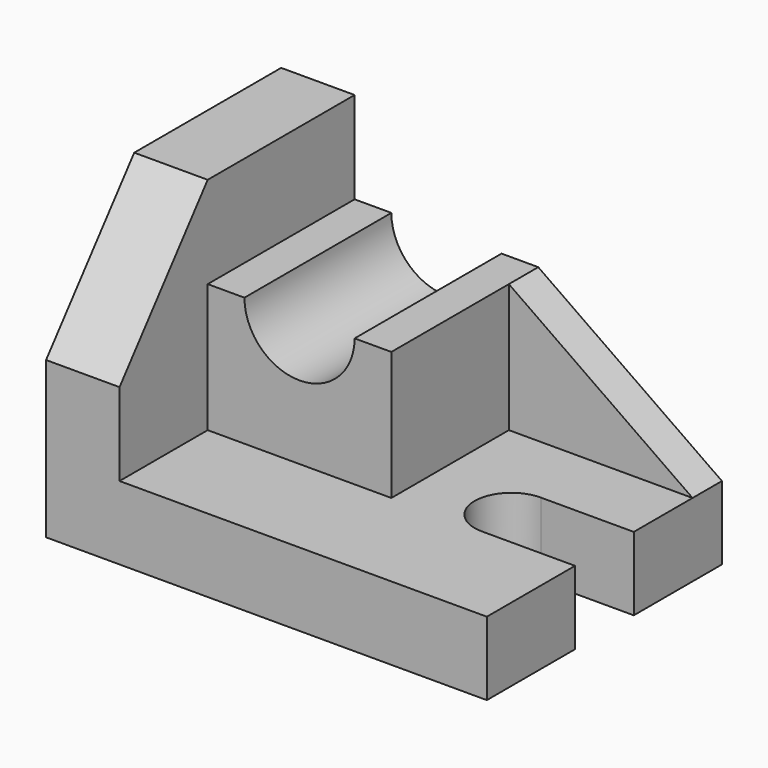
from build123d import *

# Parameters (mm, degrees)
F2_DEPTH = 1625.6
F3_DEPTH = 1625.601
F5_DEPTH = 2438.401
F7_DEPTH = 1016
F9_DEPTH = 203.2


with BuildPart() as f2:
    # F0 (on Front) → F2 (new body)
    with BuildSketch(Plane.XZ):
        Polygon((0, 1625.6), (0, 0), (98.227218, 0), (2438.4, 0), (2438.4, 406.4), (406.4, 406.4), (406.4, 1625.6), align=None)
    extrude(amount=-F2_DEPTH)

    # F1 (on Top) → F3 (cut, through all)
    with BuildSketch(Plane.XY):
        with BuildLine():
            Line((2457.325877, 609.6), (2457.325877, 1016))
            Line((2457.325877, 1016), (1923.925877, 1016))
            ThreePointArc((1923.925877, 1016), (1720.725877, 812.8), (1923.925877, 609.6))
            Line((1923.925877, 609.6), (2457.325877, 609.6))
        make_face()
    extrude(amount=F3_DEPTH, mode=Mode.SUBTRACT)

    # F4 (on face) → F5 (cut, through all)
    with BuildSketch(Plane(origin=(0, 0, 0), x_dir=(0, -1, 0), z_dir=(-1, 0, 0))):
        Polygon((308.260679, 1655.543295), (-633.554636, 1655.543295), (-609.6, 1625.6), (0, 1625.6), (0, 863.6), (198.586172, 615.367285), align=None)
        Polygon((0, 1625.6), (-609.6, 1625.6), (0, 863.6), align=None)
    extrude(amount=-F5_DEPTH, mode=Mode.SUBTRACT)


with BuildPart() as f7:
    # F6 (on face) → F7 (new body)
    with BuildSketch(Plane(origin=(0, 1625.6, 0), x_dir=(-1, 0, 0), z_dir=(0, 1, 0))):
        with BuildLine():
            Line((-406.4, 406.4), (-406.4, 1117.6))
            Line((-406.4, 1117.6), (-609.601633, 1117.6))
            ThreePointArc((-609.601633, 1117.6), (-914.400816, 813.505425), (-1219.2, 1117.6))
            Line((-1219.2, 1117.6), (-1422.4, 1117.6))
            Line((-1422.4, 1117.6), (-1422.4, 406.4))
            Line((-1422.4, 406.4), (-406.4, 406.4))
        make_face()
    extrude(amount=-F7_DEPTH)


with BuildPart() as f9:
    # F8 (on face) → F9 (new body)
    with BuildSketch(Plane(origin=(0, 1625.6, 0), x_dir=(-1, 0, 0), z_dir=(0, 1, 0))):
        Polygon((-1422.4, 406.4), (-1422.4, 1117.6), (-2438.4, 406.4), align=None)
    extrude(amount=-F9_DEPTH)


solid = Compound([f2.part, f7.part, f9.part])
